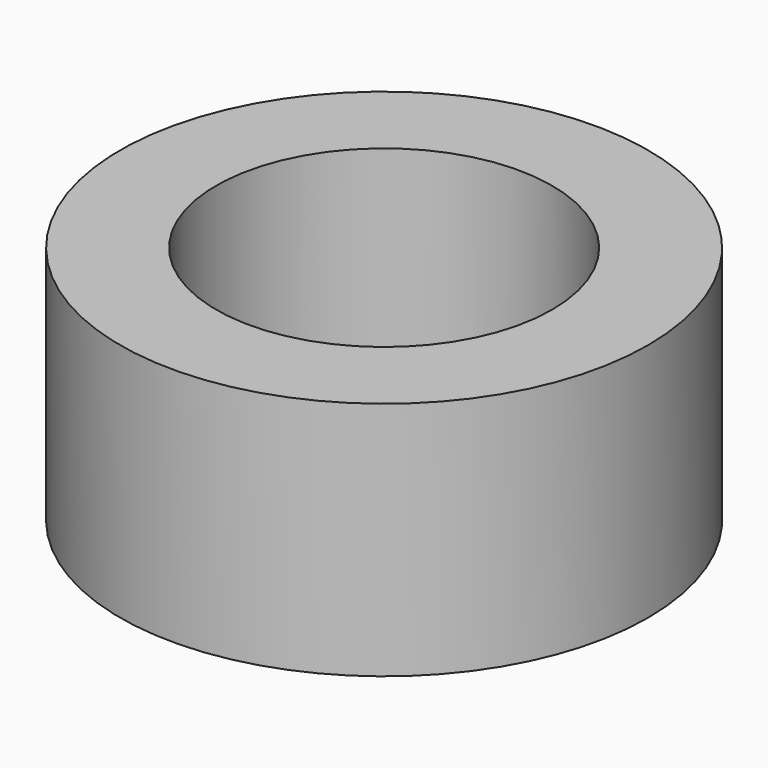
from build123d import *

# Parameters (mm, degrees)
SKETCH_R   = 4.4
SKETCH_R_2 = 2.8
PAD_DEPTH  = 4


with BuildPart() as part:
    # Sketch → Pad (new body)
    with BuildSketch(Plane.XY):
        Circle(SKETCH_R)
        Circle(SKETCH_R_2, mode=Mode.SUBTRACT)
    extrude(amount=PAD_DEPTH)


solid = part.part
